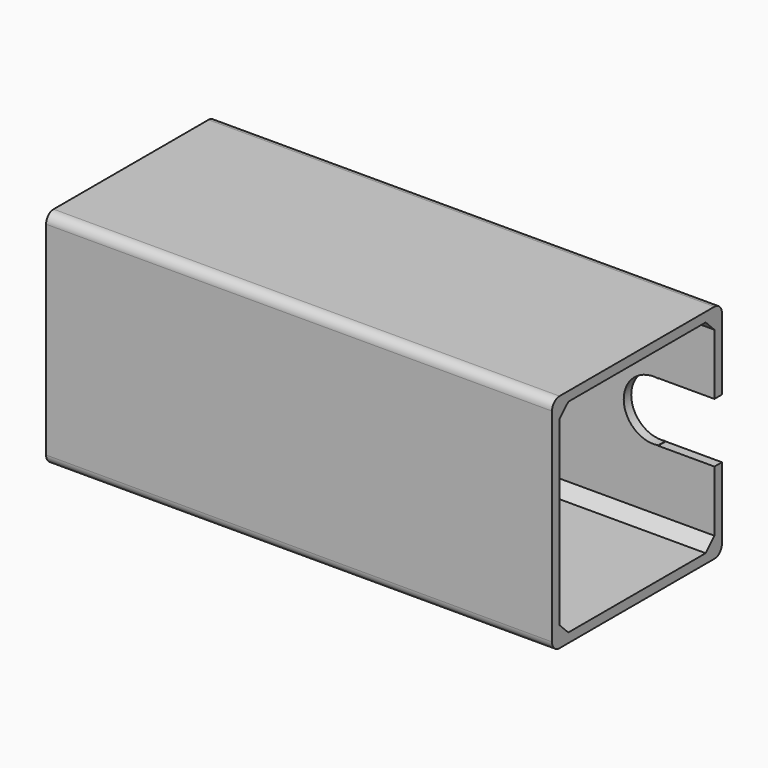
from build123d import *

# Parameters (mm, degrees)
F1_W      = 45.31
F1_H      = 47.35
F2_DEPTH  = 2
F3_DEPTH  = 107.95
F4_R      = 6.35
F7_DEPTH  = 107.951
F8_R      = 6.35
F9_DEPTH  = 25
F10_R     = 2
F11_W     = 2
F11_H     = 12.7
F12_DEPTH = 12


with BuildPart() as f2:
    # F1 (on Right) → F2 (new body)
    with BuildSketch(Plane.YZ):
        Rectangle(F1_W, F1_H)
        Polygon((18.3228993274, 21.675), (20.655, 21.675), (20.655, 19.3428993274), (20.655, -19.3428993274), (20.655, -21.675), (18.3228993274, -21.675), (-18.3228993274, -21.675), (-20.655, -21.675), (-20.655, -19.3428993274), (-20.655, 19.3428993274), (-20.655, 21.675), (-18.3228993274, 21.675), align=None, mode=Mode.SUBTRACT)
        Polygon((20.655, 19.3428993274), (18.3228993274, 21.675), (-18.3228993274, 21.675), (-20.655, 19.3428993274), (-20.655, -19.3428993274), (-18.3228993274, -21.675), (18.3228993274, -21.675), (20.655, -19.3428993274), align=None)
        Polygon((-18.3228993274, -21.675), (-20.655, -19.3428993274), (-20.655, -21.675), align=None)
        Polygon((20.655, -21.675), (20.655, -19.3428993274), (18.3228993274, -21.675), align=None)
        Polygon((20.655, 19.3428993274), (20.655, 21.675), (18.3228993274, 21.675), align=None)
        Polygon((-20.655, 19.3428993274), (-18.3228993274, 21.675), (-20.655, 21.675), align=None)
    extrude(amount=F2_DEPTH)

    # F1 (on Right) → F3 (join)
    with BuildSketch(Plane.YZ):
        Rectangle(F1_W, F1_H)
        Polygon((18.3228993274, 21.675), (20.655, 21.675), (20.655, 19.3428993274), (20.655, -19.3428993274), (20.655, -21.675), (18.3228993274, -21.675), (-18.3228993274, -21.675), (-20.655, -21.675), (-20.655, -19.3428993274), (-20.655, 19.3428993274), (-20.655, 21.675), (-18.3228993274, 21.675), align=None, mode=Mode.SUBTRACT)
        Polygon((20.655, 19.3428993274), (20.655, 21.675), (18.3228993274, 21.675), align=None)
        Polygon((20.655, -21.675), (20.655, -19.3428993274), (18.3228993274, -21.675), align=None)
        Polygon((-18.3228993274, -21.675), (-20.655, -19.3428993274), (-20.655, -21.675), align=None)
        Polygon((-20.655, 19.3428993274), (-18.3228993274, 21.675), (-20.655, 21.675), align=None)
    extrude(amount=F3_DEPTH)

    # F4 (on face) → F7 (cut, through all)
    with BuildSketch(Plane.YZ):
        Circle(F4_R)
    extrude(amount=F7_DEPTH, mode=Mode.SUBTRACT)

    # F8 (on face) → F9 (cut)
    with BuildSketch(Plane(origin=(0, 22.655, 0), x_dir=(-1, 0, 0), z_dir=(0, 1, 0))):
        with Locations((-94.95, 0)):
            Circle(F8_R)
    extrude(amount=-F9_DEPTH, mode=Mode.SUBTRACT)

    # F10
    f10_edges = [f2.edges().sort_by_distance(p)[0] for p in [
        (53.975, -22.655, 23.675),
        (53.975, 22.655, 23.675),
        (53.975, 22.655, -23.675),
        (53.975, -22.655, -23.675),
    ]]
    fillet(f10_edges, radius=F10_R)

    # F11 (on face) → F12 (cut)
    with BuildSketch(Plane.YZ.offset(107.95)):
        with Locations((21.655, 0)):
            Rectangle(F11_W, F11_H)
    extrude(amount=-F12_DEPTH, mode=Mode.SUBTRACT)


solid = f2.part
